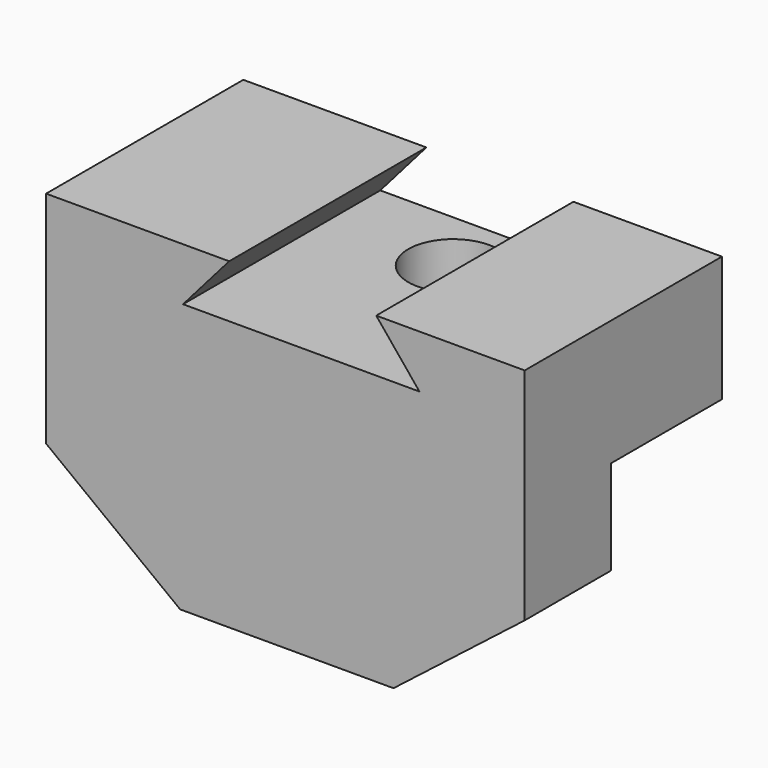
from build123d import *

# Parameters (mm, degrees)
F0_W     = 96.76984
F0_H     = 49.842296
F1_DEPTH = 25.4
F2_W     = 96.76984
F2_H     = 44.49164
F3_DEPTH = 21.844
F5_DEPTH = 64.516
F6_R     = 9.073272
F7_DEPTH = 25.4


with BuildPart() as f1:
    # F0 (on Top) → F1 (new body)
    with BuildSketch(Plane.XY):
        with Locations((-4.372131, -2.331802)):
            Rectangle(F0_W, F0_H)
    extrude(amount=F1_DEPTH)

    # F2 (on face) → F3 (join)
    with BuildSketch(Plane.XZ.offset(27.25295)):
        with Locations((-4.372131, 3.15418)):
            Rectangle(F2_W, F2_H)
        Polygon((17.488524, -39.786395), (44.012789, -19.09164), (-52.757051, -19.09164), (-25.649834, -39.786395), align=None)
    extrude(amount=-F3_DEPTH)

    # F4 (on face) → F5 (cut)
    with BuildSketch(Plane(origin=(0, 22.589346, 0), x_dir=(-1, 0, 0), z_dir=(0, 1, 0))):
        Polygon((25.066886, 14.719509), (15.739672, 25.4), (-13.990819, 25.4), (-22.735082, 14.719509), align=None)
    extrude(amount=-F5_DEPTH, mode=Mode.SUBTRACT)

    # F6 (on face) → F7 (cut)
    with BuildSketch(Plane(origin=(0, 0, 0), x_dir=(1, 0, 0), z_dir=(0, 0, -1))):
        with Locations((0, -9.686902)):
            Circle(F6_R)
    extrude(amount=-F7_DEPTH, mode=Mode.SUBTRACT)


solid = f1.part
